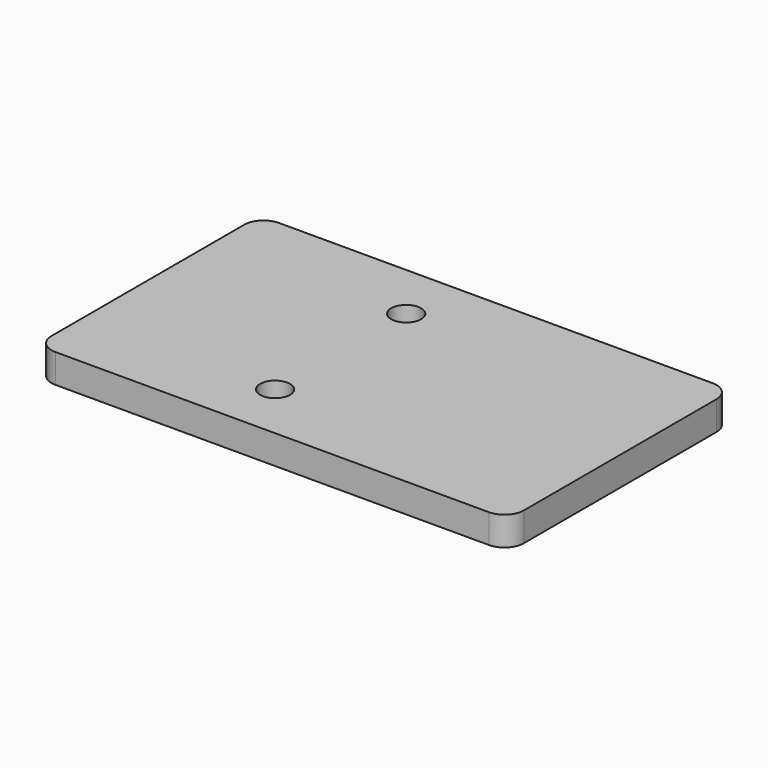
from build123d import *

# Parameters (mm, degrees)
F0_W     = 49
F0_H     = 29
F1_DEPTH = 3
F2_R     = 1.55
F3_DEPTH = 25.4
F4_R     = 2


with BuildPart() as f1:
    # F0 (on Top) → F1 (new body)
    with BuildSketch(Plane.XY):
        Rectangle(F0_W, F0_H)
    extrude(amount=F1_DEPTH)

    # F2 (on face) → F3 (cut)
    with BuildSketch(Plane.XY.offset(3)):
        with Locations((-4.5, -8.5)):
            Circle(F2_R)
        with Locations((-4.5, 8.5)):
            Circle(F2_R)
    extrude(amount=-F3_DEPTH, mode=Mode.SUBTRACT)

    # F4
    f4_edges = [f1.edges().sort_by_distance(p)[0] for p in [
        (-24.5, 14.5, 1.5),
        (-24.5, -14.5, 1.5),
        (24.5, -14.5, 1.5),
        (24.5, 14.5, 1.5),
    ]]
    fillet(f4_edges, radius=F4_R)


solid = f1.part
